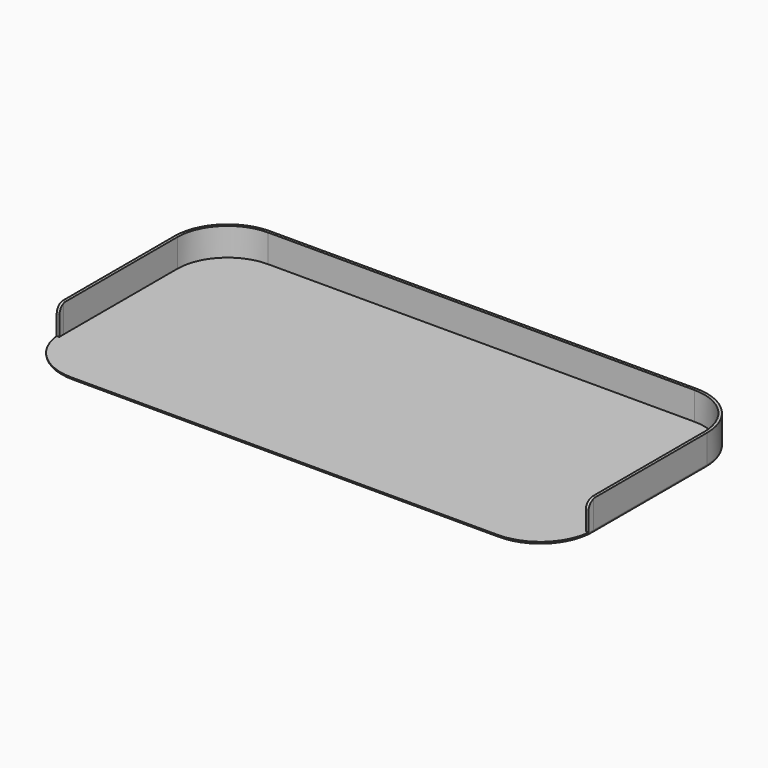
from build123d import *

# Parameters (mm, degrees)
PAD_DEPTH         = 10
THICKNESS_T       = 1
SKETCH001_W       = 15
SKETCH001_H       = 10
SKETCH001_W_2     = 143
POCKET_DEPTH      = 5
POCKET_DEPTH_BACK = -5
SKETCH002_W       = 191
SKETCH002_H       = 10
POCKET001_DEPTH   = 17
FILLET_R          = 3


with BuildPart() as part:
    # Sketch → Pad (new body)
    with BuildSketch(Plane.XY):
        with BuildLine():
            Line((-76.5, 43.5), (76.5, 43.5))
            ThreePointArc((94.5, 25.5), (89.227922, 38.227922), (76.5, 43.5))
            Line((94.5, 25.5), (94.5, -25.5))
            ThreePointArc((76.5, -43.5), (89.227922, -38.227922), (94.5, -25.5))
            Line((76.5, -43.5), (-76.5, -43.5))
            ThreePointArc((-94.5, -25.5), (-89.227922, -38.227922), (-76.5, -43.5))
            Line((-94.5, -25.5), (-94.5, 25.5))
            ThreePointArc((-76.5, 43.5), (-89.227922, 38.227922), (-94.5, 25.5))
        make_face()
    extrude(amount=PAD_DEPTH)

    # Thickness
    thickness_openings = [part.faces().sort_by_distance(p)[0] for p in [
        (0, 0, 10),
    ]]
    offset(amount=THICKNESS_T, openings=thickness_openings)

    # Sketch001 (on Face5 of Thickness) → Pocket (cut, two sides)
    with BuildSketch(Plane(origin=(0, -43.5, 0), x_dir=(-1, 0, 0), z_dir=(0, 1, 0))) as pocket_sk:
        with Locations((79, 5)):
            Rectangle(SKETCH001_W, SKETCH001_H)
        with Locations((-79, 5)):
            Rectangle(SKETCH001_W, SKETCH001_H)
        with Locations((0, 5)):
            Rectangle(SKETCH001_W_2, SKETCH001_H)
    extrude(amount=-POCKET_DEPTH, mode=Mode.SUBTRACT)
    extrude(pocket_sk.sketch, amount=-POCKET_DEPTH_BACK, mode=Mode.SUBTRACT)

    # Sketch002 (on Face15 of Thickness) → Pocket001 (cut)
    with BuildSketch(Plane.XZ.offset(44.5)):
        with Locations((0, 5)):
            Rectangle(SKETCH002_W, SKETCH002_H)
    extrude(amount=-POCKET001_DEPTH, mode=Mode.SUBTRACT)

    # Fillet
    fillet_edges = [part.edges().sort_by_distance(p)[0] for p in [
        (-94.891494, -27.5, 10),
        (94.891494, -27.5, 10),
    ]]
    fillet(fillet_edges, radius=FILLET_R)


solid = part.part
